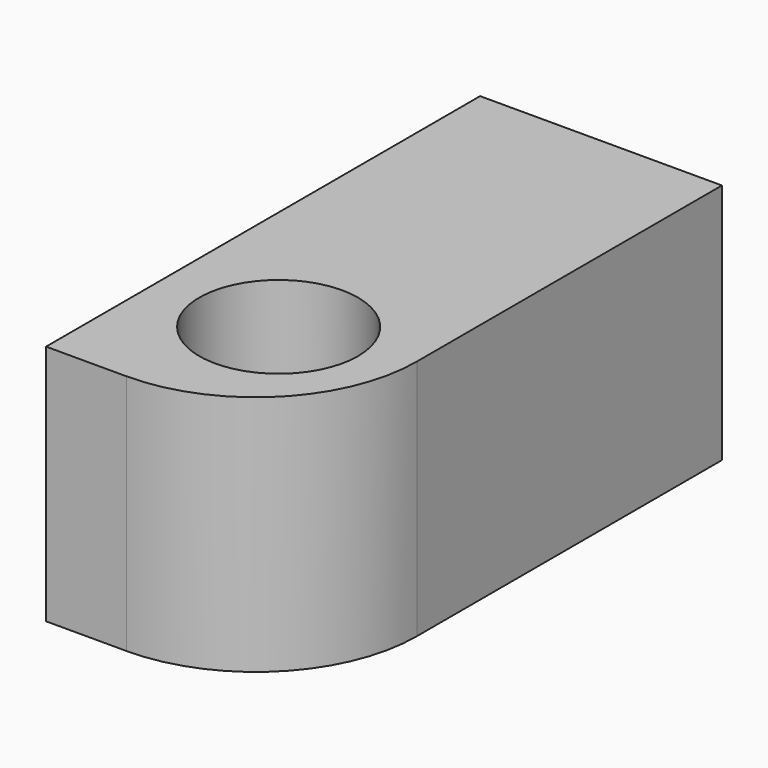
from build123d import *

# Parameters (mm, degrees)
F0_W     = 76.2
F0_H     = 76.2
F1_DEPTH = 170.942
F2_R     = 25.000448
F3_DEPTH = 76.201
F4_R     = 50.8


with BuildPart() as f1:
    # F0 (on Front) → F1 (new body)
    with BuildSketch(Plane.XZ):
        Rectangle(F0_W, F0_H)
    extrude(amount=F1_DEPTH)

    # F2 (on face) → F3 (cut, through all)
    with BuildSketch(Plane.XY.offset(38.1)):
        with Locations((0, -126.970813)):
            Circle(F2_R)
    extrude(amount=-F3_DEPTH, mode=Mode.SUBTRACT)

    # F4
    f4_edges = [f1.edges().sort_by_distance(p)[0] for p in [
        (38.1, -170.942, 0),
    ]]
    fillet(f4_edges, radius=F4_R)


solid = f1.part
